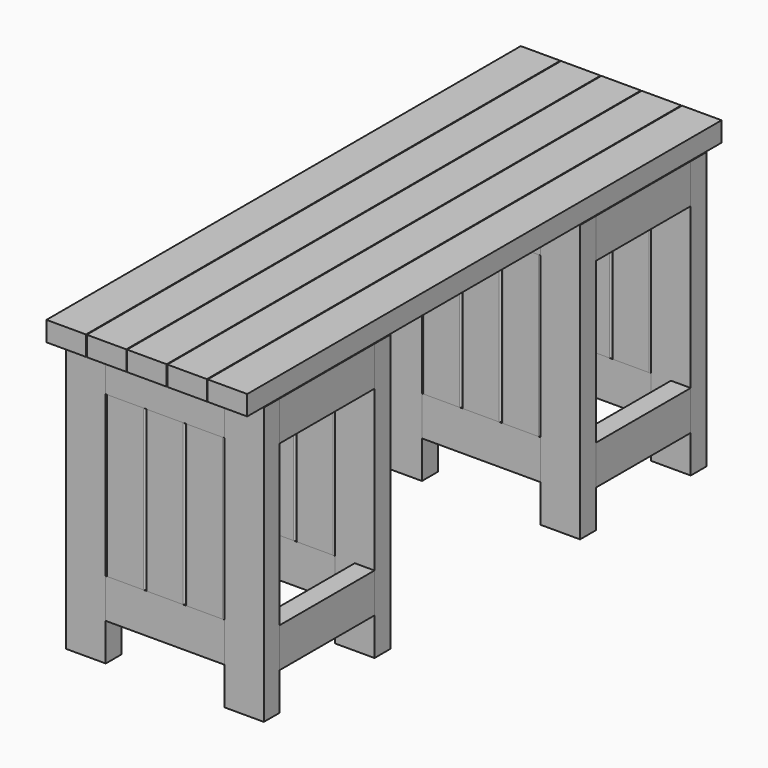
from build123d import *

# Parameters (mm, degrees)
F0_W      = 100
F0_H      = 50
F1_DEPTH  = 700
F2_W      = 50
F2_H      = 100
F3_DEPTH  = 300
F4_W      = 100
F4_H      = 50
F4_W_2    = 50
F4_H_2    = 100
F5_DEPTH  = 300
F7_DEPTH  = 405
F9_DEPTH  = 405
F10_W     = 100
F10_H     = 1500
F11_DEPTH = 50


with BuildPart() as f1:
    # F0 (on Top) → F1 (new body)
    with BuildSketch(Plane.XY):
        with Locations((-48.77646, -38.471129)):
            Rectangle(F0_W, F0_H)
        with Locations((351.22354, -38.471129)):
            Rectangle(F0_W, F0_H)
        with Locations((-48.77646, 311.528871)):
            Rectangle(F0_W, F0_H)
        with Locations((351.22354, 311.528871)):
            Rectangle(F0_W, F0_H)
    extrude(amount=F1_DEPTH)


with BuildPart() as f3:
    # F2 (on face) → F3 (new body, through all)
    with BuildSketch(Plane.YZ.offset(1.22354)):
        with Locations((-38.471129, 650)):
            Rectangle(F2_W, F2_H)
        with Locations((-38.471129, 145)):
            Rectangle(F2_W, F2_H)
        with Locations((311.528871, 650)):
            Rectangle(F2_W, F2_H)
        with Locations((311.528871, 145)):
            Rectangle(F2_W, F2_H)
    extrude(amount=F3_DEPTH)


with BuildPart() as f5:
    # F4 (on face) → F5 (new body, through all)
    with BuildSketch(Plane.XZ.offset(-286.528871)):
        with Locations((-48.77646, 675)):
            Rectangle(F4_W, F4_H)
        with Locations((-48.77646, 120)):
            Rectangle(F4_W, F4_H)
        with Locations((376.22354, 650)):
            Rectangle(F4_W_2, F4_H_2)
        with Locations((376.22354, 145)):
            Rectangle(F4_W_2, F4_H_2)
    extrude(amount=F5_DEPTH)


with BuildPart() as f7:
    # F6 (on face) → F7 (new body, through all)
    with BuildSketch(Plane.XY.offset(195)):
        with BuildLine():
            ThreePointArc((206.22354, -13.471129), (202.688006, -14.935595), (201.22354, -18.471129))
            Line((201.22354, -18.471129), (201.22354, -58.471129))
            ThreePointArc((201.22354, -58.471129), (202.688006, -62.006663), (206.22354, -63.471129))
            Line((206.22354, -63.471129), (296.22354, -63.471129))
            ThreePointArc((296.22354, -63.471129), (299.759074, -62.006663), (301.22354, -58.471129))
            Line((301.22354, -58.471129), (301.22354, -18.471129))
            ThreePointArc((301.22354, -18.471129), (299.759074, -14.935595), (296.22354, -13.471129))
            Line((296.22354, -13.471129), (206.22354, -13.471129))
        make_face()
        with BuildLine():
            ThreePointArc((106.22354, -13.471129), (102.688006, -14.935595), (101.22354, -18.471129))
            Line((101.22354, -18.471129), (101.22354, -58.471129))
            ThreePointArc((101.22354, -58.471129), (102.688006, -62.006663), (106.22354, -63.471129))
            Line((106.22354, -63.471129), (196.22354, -63.471129))
            ThreePointArc((196.22354, -63.471129), (199.759074, -62.006663), (201.22354, -58.471129))
            Line((201.22354, -58.471129), (201.22354, -18.471129))
            ThreePointArc((201.22354, -18.471129), (199.759074, -14.935595), (196.22354, -13.471129))
            Line((196.22354, -13.471129), (106.22354, -13.471129))
        make_face()
        with BuildLine():
            Line((96.22354, -13.471129), (6.22354, -13.471129))
            ThreePointArc((6.22354, -13.471129), (2.688006, -14.935595), (1.22354, -18.471129))
            Line((1.22354, -18.471129), (1.22354, -58.471129))
            ThreePointArc((1.22354, -58.471129), (2.688006, -62.006663), (6.22354, -63.471129))
            Line((6.22354, -63.471129), (96.22354, -63.471129))
            ThreePointArc((96.22354, -63.471129), (99.759074, -62.006663), (101.22354, -58.471129))
            Line((101.22354, -58.471129), (101.22354, -18.471129))
            ThreePointArc((101.22354, -18.471129), (99.759074, -14.935595), (96.22354, -13.471129))
        make_face()
    extrude(amount=F7_DEPTH)


with BuildPart() as f9:
    # F8 (on face) → F9 (new body, through all)
    with BuildSketch(Plane.XY.offset(195)):
        with BuildLine():
            ThreePointArc((301.22354, 331.528871), (299.759074, 335.064405), (296.22354, 336.528871))
            Line((296.22354, 336.528871), (206.22354, 336.528871))
            ThreePointArc((206.22354, 336.528871), (202.688006, 335.064405), (201.22354, 331.528871))
            Line((201.22354, 331.528871), (201.22354, 291.528871))
            ThreePointArc((201.22354, 291.528871), (202.688006, 287.993337), (206.22354, 286.528871))
            Line((206.22354, 286.528871), (296.22354, 286.528871))
            ThreePointArc((296.22354, 286.528871), (299.759074, 287.993337), (301.22354, 291.528871))
            Line((301.22354, 291.528871), (301.22354, 331.528871))
        make_face()
        with BuildLine():
            Line((201.22354, 291.528871), (201.22354, 331.528871))
            ThreePointArc((201.22354, 331.528871), (199.759074, 335.064405), (196.22354, 336.528871))
            Line((196.22354, 336.528871), (106.22354, 336.528871))
            ThreePointArc((106.22354, 336.528871), (102.688006, 335.064405), (101.22354, 331.528871))
            Line((101.22354, 331.528871), (101.22354, 291.528871))
            ThreePointArc((101.22354, 291.528871), (102.688006, 287.993337), (106.22354, 286.528871))
            Line((106.22354, 286.528871), (196.22354, 286.528871))
            ThreePointArc((196.22354, 286.528871), (199.759074, 287.993337), (201.22354, 291.528871))
        make_face()
        with BuildLine():
            Line((101.22354, 291.528871), (101.22354, 331.528871))
            ThreePointArc((101.22354, 331.528871), (99.759074, 335.064405), (96.22354, 336.528871))
            Line((96.22354, 336.528871), (6.22354, 336.528871))
            ThreePointArc((6.22354, 336.528871), (2.688006, 335.064405), (1.22354, 331.528871))
            Line((1.22354, 331.528871), (1.22354, 291.528871))
            ThreePointArc((1.22354, 291.528871), (2.688006, 287.993337), (6.22354, 286.528871))
            Line((6.22354, 286.528871), (96.22354, 286.528871))
            ThreePointArc((96.22354, 286.528871), (99.759074, 287.993337), (101.22354, 291.528871))
        make_face()
    extrude(amount=F9_DEPTH)


with BuildPart() as f11:
    # F10 (on face) → F11 (new body)
    with BuildSketch(Plane.XY.offset(700)):
        with Locations((349.22354, 636.528871)):
            Rectangle(F10_W, F10_H)
        with Locations((247.22354, 636.528871)):
            Rectangle(F10_W, F10_H)
        with Locations((145.22354, 636.528871)):
            Rectangle(F10_W, F10_H)
        with Locations((43.22354, 636.528871)):
            Rectangle(F10_W, F10_H)
        with Locations((-58.77646, 636.528871)):
            Rectangle(F10_W, F10_H)
    extrude(amount=F11_DEPTH)


with BuildPart() as f13_1:
    # F13: instance of F3
    add(f3.part.mirror(Plane(origin=(151.22354, 636.528871, 650), x_dir=(-1, 0, 0), z_dir=(0, 1, 0))))


with BuildPart() as f13_2:
    # F13: instance of F1
    add(f1.part.mirror(Plane(origin=(151.22354, 636.528871, 650), x_dir=(-1, 0, 0), z_dir=(0, 1, 0))))


with BuildPart() as f13_3:
    # F13: instance of F9
    add(f9.part.mirror(Plane(origin=(151.22354, 636.528871, 650), x_dir=(-1, 0, 0), z_dir=(0, 1, 0))))


with BuildPart() as f13_4:
    # F13: instance of F5
    add(f5.part.mirror(Plane(origin=(151.22354, 636.528871, 650), x_dir=(-1, 0, 0), z_dir=(0, 1, 0))))


with BuildPart() as f13_5:
    # F13: instance of F7
    add(f7.part.mirror(Plane(origin=(151.22354, 636.528871, 650), x_dir=(-1, 0, 0), z_dir=(0, 1, 0))))


solid = Compound([f1.part, f3.part, f5.part, f7.part, f9.part, f11.part, f13_1.part, f13_2.part, f13_3.part, f13_4.part, f13_5.part])
